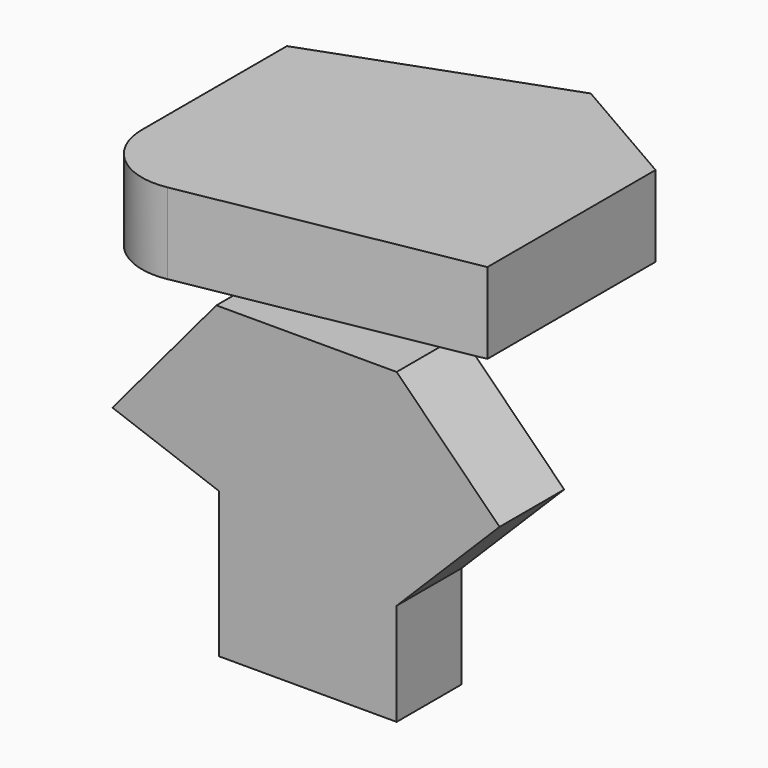
from build123d import *

# Parameters (mm, degrees)
F1_DEPTH = 25
F3_DEPTH = 25


with BuildPart() as f1:
    # F0 (on Top) → F1 (new body)
    with BuildSketch(Plane.XY):
        with BuildLine():
            Line((89.489246, -33.024196), (89.489246, 31.975804))
            Line((89.489246, 31.975804), (52.268421, 53.465258))
            Line((52.268421, 53.465258), (-20.510754, 26.975804))
            Line((-20.510754, 26.975804), (-20.510754, -29.059941))
            ThreePointArc((-20.510754, -29.059941), (-13.325702, -44.414976), (3.066955, -48.737339))
            Line((3.066955, -48.737339), (89.489246, -33.024196))
        make_face()
    extrude(amount=F1_DEPTH)


with BuildPart() as f3:
    # F2 (on Front) → F3 (new body)
    with BuildSketch(Plane.XZ):
        Polygon((0, -113.299534), (55, -113.299534), (55.000139, -81.666217), (86.819944, -49.846412), (55.000139, -18.026607), (-0.749861, -18.026607), (-32.889242, -56.328829), (0, -68.299534), align=None)
    extrude(amount=F3_DEPTH)


solid = Compound([f1.part, f3.part])
